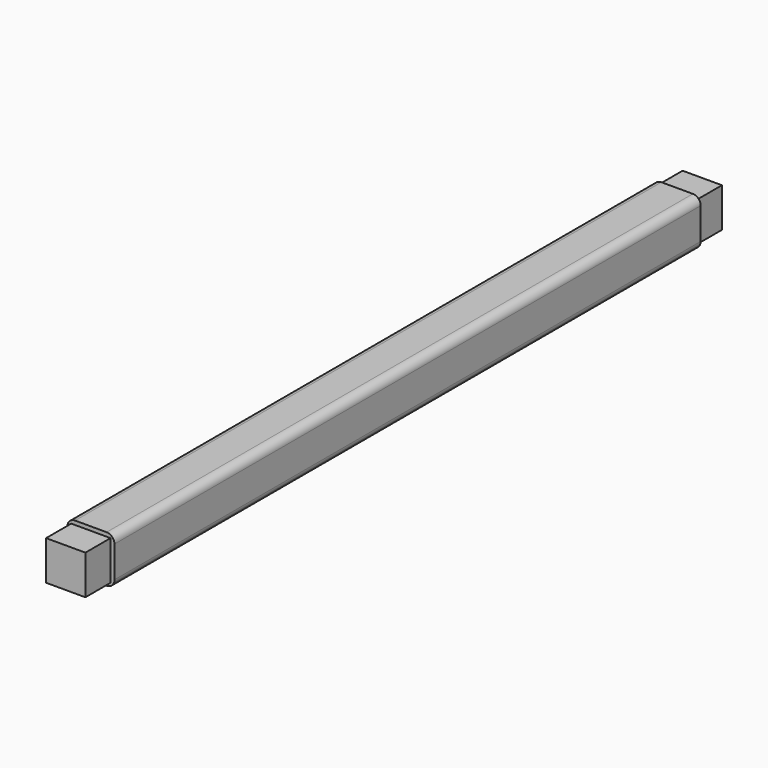
from build123d import *

# Parameters (mm, degrees)
F0_W     = 38.1
F0_H     = 38.1
F1_DEPTH = 295.91
F2_W     = 31.75
F2_H     = 31.75
F3_DEPTH = 25.4
F4_W     = 31.75
F4_H     = 31.75
F5_DEPTH = 25.4
F6_R     = 6.35


with BuildPart() as f1:
    # F0 (on Front) → F1 (new body, symmetric)
    with BuildSketch(Plane.XZ):
        Rectangle(F0_W, F0_H)
    extrude(amount=F1_DEPTH, both=True)

    # F2 (on face) → F3 (join)
    with BuildSketch(Plane(origin=(0, 295.91, 0), x_dir=(-1, 0, 0), z_dir=(0, 1, 0))):
        Rectangle(F2_W, F2_H)
    extrude(amount=F3_DEPTH)

    # F4 (on face) → F5 (join)
    with BuildSketch(Plane.XZ.offset(295.91)):
        Rectangle(F4_W, F4_H)
    extrude(amount=F5_DEPTH)

    # F6
    f6_edges = [f1.edges().sort_by_distance(p)[0] for p in [
        (19.05, 0, 19.05),
        (19.05, 0, -19.05),
        (-19.05, 0, -19.05),
        (-19.05, 0, 19.05),
    ]]
    fillet(f6_edges, radius=F6_R)


solid = f1.part
